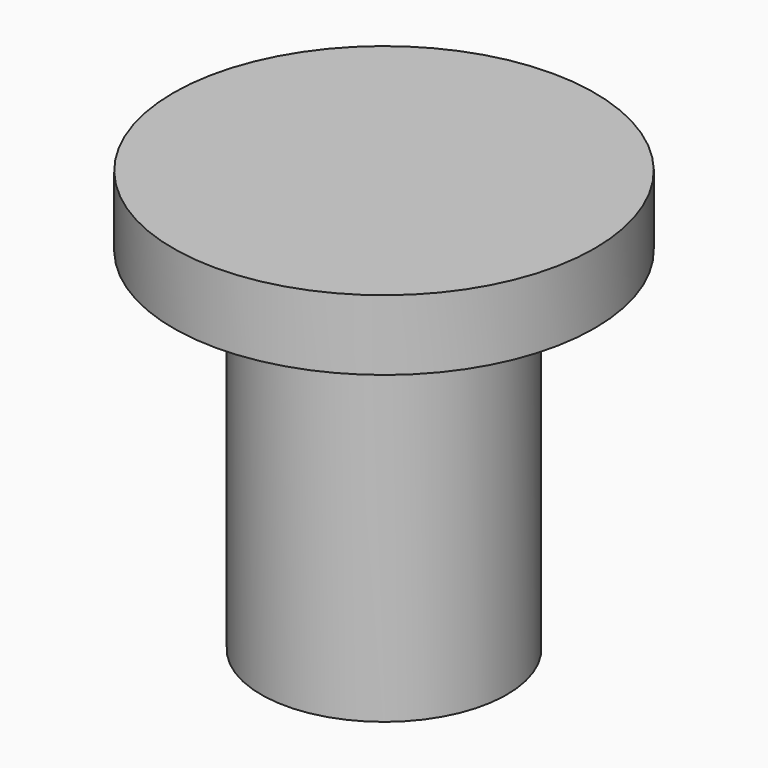
from build123d import *

# Parameters (mm, degrees)
F0_R     = 60
F1_DEPTH = 20
F2_R     = 35
F3_DEPTH = 100
F5_DEPTH = 100


with BuildPart() as f1:
    # F0 (on Top) → F1 (new body)
    with BuildSketch(Plane.XY):
        Circle(F0_R)
    extrude(amount=F1_DEPTH)

    # F2 (on face) → F3 (join)
    with BuildSketch(Plane(origin=(0, 0, 0), x_dir=(1, 0, 0), z_dir=(0, 0, -1))):
        Circle(F2_R)
    extrude(amount=F3_DEPTH)

    # F4 (on face) → F5 (cut)
    with BuildSketch(Plane(origin=(0, 0, -100), x_dir=(1, 0, 0), z_dir=(0, 0, -1))):
        with BuildLine():
            Line((-7.8536700457, -25.464490056), (-7.8536700457, -28.953753933))
            ThreePointArc((-7.8536700457, -28.953753933), (2.2773518168, -29.913436257), (12.1463299543, -27.4311259091))
            Line((12.1463299543, -27.4311259091), (12.1463299543, -25.464490056))
            Line((12.1463299543, -25.464490056), (-7.8536700457, -25.464490056))
        make_face()
        with BuildLine():
            ThreePointArc((12.1463299543, -27.4311259091), (25.1434872147, -16.3647502482), (30, 0))
            ThreePointArc((30, 0), (-18.22621599, 23.8286602789), (-7.8536700457, -28.953753933))
            Line((-7.8536700457, -28.953753933), (-7.8536700457, -25.464490056))
            Line((-7.8536700457, -25.464490056), (12.1463299543, -25.464490056))
            Line((12.1463299543, -25.464490056), (12.1463299543, -27.4311259091))
        make_face()
        with BuildLine():
            ThreePointArc((12.1463299543, -27.4311259091), (2.2773518168, -29.913436257), (-7.8536700457, -28.953753933))
            Line((-7.8536700457, -28.953753933), (-7.8536700457, -34.1074752336))
            ThreePointArc((-7.8536700457, -34.1074752336), (2.2401014005, -34.9282399459), (12.1463299543, -32.824787412))
            Line((12.1463299543, -32.824787412), (12.1463299543, -27.4311259091))
        make_face()
    extrude(amount=-F5_DEPTH, mode=Mode.SUBTRACT)


solid = f1.part
